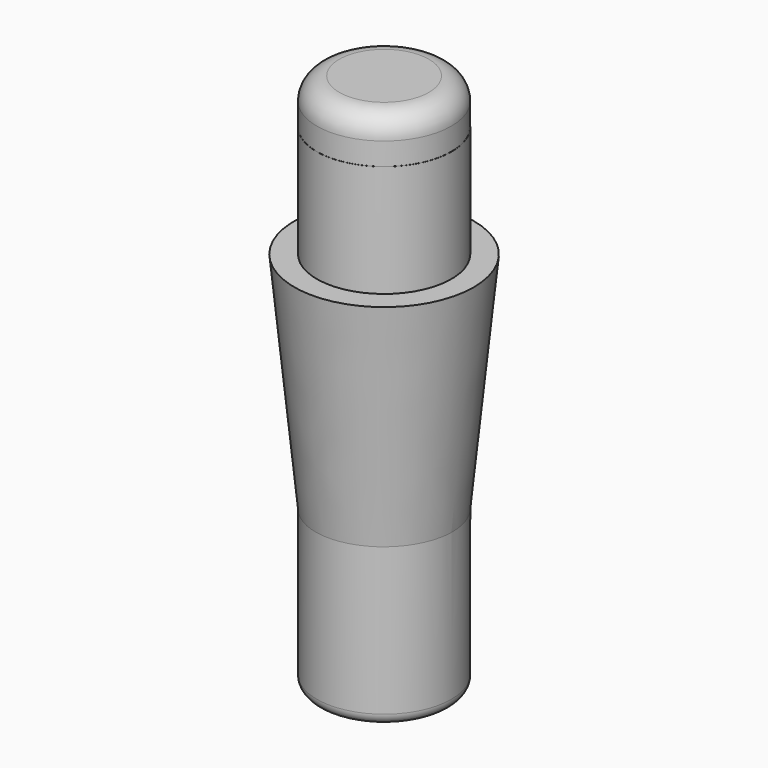
from build123d import *

# Parameters (mm, degrees)
CYLINDER004_R     = 3
CYLINDER004_DEPTH = 22
FILLET006_R       = 0.5
CYLINDER005_R     = 3
CYLINDER005_DEPTH = 7
FILLET005_R       = 1


with BuildPart() as fillet006:
    # Cylinder004 → Cylinder004 (new body)
    with BuildSketch(Plane(origin=(-43.635, 0.385, 10.17), x_dir=(1, 0, 0), z_dir=(0, 0, 1))):
        Circle(CYLINDER004_R)
    extrude(amount=CYLINDER004_DEPTH)

    # Fillet006
    fillet006_edges = [fillet006.edges().sort_by_distance(p)[0] for p in [
        (-46.635, 0.385, 10.17),
    ]]
    fillet(fillet006_edges, radius=FILLET006_R)


with BuildPart() as cone002:
    # Cone002 → Cone002 (revolve)
    with BuildSketch(Plane(origin=(-43.64, 0.39, 17.17), x_dir=(1, 0, 0), z_dir=(0, -1, 0))):
        Polygon((0, 0), (3, 0), (4, 10), (0, 10), align=None)
    revolve(axis=Axis((-43.64, 0.39, 17.17), (0, 0, 1)))


with BuildPart() as fusion003:
    # Cylinder005 → Cylinder005 (new body)
    with BuildSketch(Plane(origin=(-43.64, 0.39, 27.17), x_dir=(1, 0, 0), z_dir=(0, 0, 1))):
        Circle(CYLINDER005_R)
    extrude(amount=CYLINDER005_DEPTH)

    # Fillet005
    fillet005_edges = [fusion003.edges().sort_by_distance(p)[0] for p in [
        (-46.64, 0.39, 34.17),
    ]]
    fillet(fillet005_edges, radius=FILLET005_R)

    # Fusion003: union Fillet006, Cone002
    add(fillet006.part)
    add(cone002.part)


with BuildPart() as fusion003_1:
    # Fusion003 placement: moved
    add(fusion003.part.moved(Location((15.342, -20.315, 0))))


solid = fusion003_1.part
